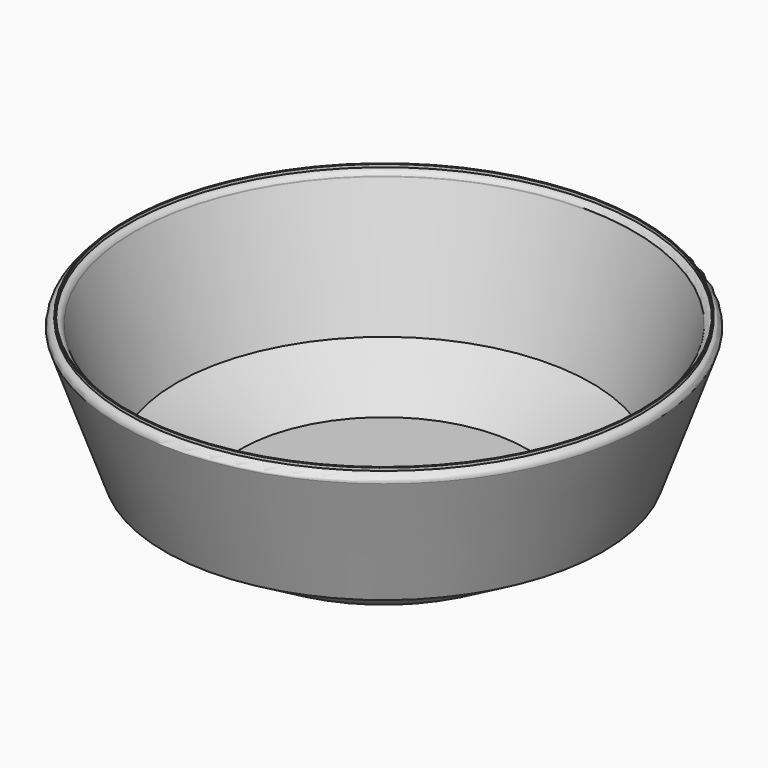
from build123d import *

# Parameters (mm, degrees)
F1_FACE_R   = 90.024538
F1_FACE_R_2 = 89.548451
F2_DEPTH    = 1


with BuildPart() as f1:
    # F0 (on Front) → F1 (revolve)
    with BuildSketch(Plane.XZ):
        with BuildLine():
            Line((50, -15), (0, -15))
            Line((0, -15), (0, -20))
            Line((0, -20), (51.339746, -20))
            Line((51.339746, -20), (76.607324, -5.411757))
            Line((76.607324, -5.411757), (92.324917, 38.58594))
            ThreePointArc((92.324917, 38.58594), (91.73409, 40.422926), (90.024538, 41.317926))
            Line((90.024538, 41.317926), (89.548451, 41.317926))
            ThreePointArc((89.548451, 41.317926), (88.271948, 40.829619), (87.43186, 39.751586))
            Line((87.43186, 39.751586), (87.351134, 39.525611))
            Line((87.351134, 39.525611), (72.51666, -2))
            Line((72.51666, -2), (50, -15))
        make_face()
    revolve(axis=Axis((0, 0, -17.5), (0, 0, -1)))

    # F1_face (on face) → F2 (join)
    with BuildSketch(Plane.XY.offset(41.317926)):
        Circle(F1_FACE_R)
        Circle(F1_FACE_R_2, mode=Mode.SUBTRACT)
    extrude(amount=F2_DEPTH)


solid = f1.part
